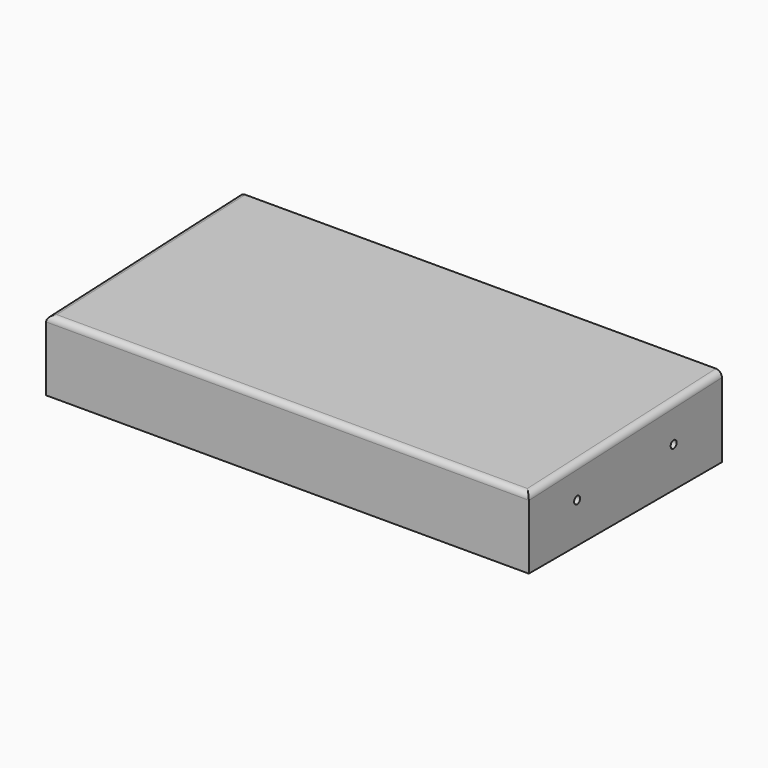
from build123d import *

# Parameters (mm, degrees)
F0_R     = 4.7625
F1_DEPTH = 304.8
F2_R     = 7.62


with BuildPart() as f1:
    # F0 (on Right) → F1 (new body, symmetric)
    with BuildSketch(Plane.YZ):
        Polygon((-304.8, 0), (0, 0), (0, 101.6), (-304.8, 88.9), align=None)
        with Locations((-228.6, 50.8)):
            Circle(F0_R, mode=Mode.SUBTRACT)
        with Locations((-76.2, 50.8)):
            Circle(F0_R, mode=Mode.SUBTRACT)
    extrude(amount=F1_DEPTH, both=True)

    # F2
    f2_edges = [f1.edges().sort_by_distance(p)[0] for p in [
        (0, -304.8, 88.9),
        (-304.8, -152.4, 95.25),
        (304.8, -152.4, 95.25),
    ]]
    fillet(f2_edges, radius=F2_R)


solid = f1.part
